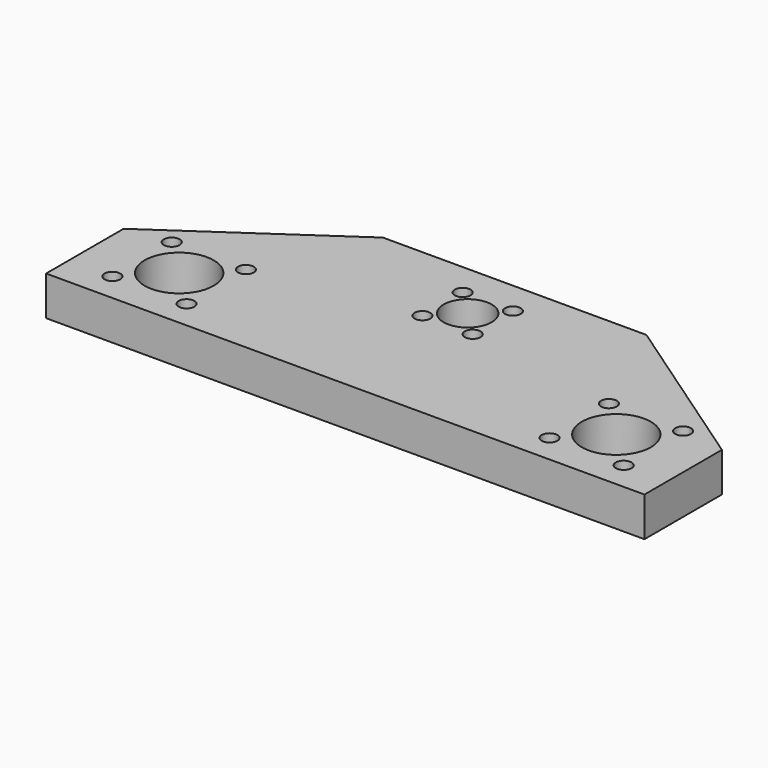
from build123d import *

# Parameters (mm, degrees)
SKETCH_R     = 5.5
SKETCH_R_2   = 1.8
SKETCH_R_3   = 7.9
PAD_DEPTH    = 15
POCKET_DEPTH = 6


with BuildPart() as part:
    # Sketch → Pad (new body)
    with BuildSketch(Plane.XY):
        Polygon((-68.442958, -12.848852), (-30.14609, 13.441504), (30.14609, 13.441504), (68.442958, -12.848852), (68.442958, -35), (-68.442958, -35), align=None)
        Circle(SKETCH_R, mode=Mode.SUBTRACT)
        with Locations((-5.75, 5.75)):
            Circle(SKETCH_R_2, mode=Mode.SUBTRACT)
        with Locations((5.75, 5.75)):
            Circle(SKETCH_R_2, mode=Mode.SUBTRACT)
        with Locations((5.75, -5.75)):
            Circle(SKETCH_R_2, mode=Mode.SUBTRACT)
        with Locations((-5.75, -5.75)):
            Circle(SKETCH_R_2, mode=Mode.SUBTRACT)
        with Locations((-58.485281, -28.485281)):
            Circle(SKETCH_R_2, mode=Mode.SUBTRACT)
        with Locations((-41.514719, -11.514719)):
            Circle(SKETCH_R_2, mode=Mode.SUBTRACT)
        with Locations((-41.514719, -28.485281)):
            Circle(SKETCH_R_2, mode=Mode.SUBTRACT)
        with Locations((-58.485281, -11.514719)):
            Circle(SKETCH_R_2, mode=Mode.SUBTRACT)
        with Locations((-50, -20)):
            Circle(SKETCH_R_3, mode=Mode.SUBTRACT)
        with Locations((41.514719, -28.485281)):
            Circle(SKETCH_R_2, mode=Mode.SUBTRACT)
        with Locations((58.485281, -11.514719)):
            Circle(SKETCH_R_2, mode=Mode.SUBTRACT)
        with Locations((58.485281, -28.485281)):
            Circle(SKETCH_R_2, mode=Mode.SUBTRACT)
        with Locations((41.514719, -11.514719)):
            Circle(SKETCH_R_2, mode=Mode.SUBTRACT)
        with Locations((50, -20)):
            Circle(SKETCH_R_3, mode=Mode.SUBTRACT)
    extrude(amount=PAD_DEPTH)

    # Sketch001 → Pocket (cut)
    with BuildSketch(Plane(origin=(0, 0, 0), x_dir=(1, 0, 0), z_dir=(0, 0, -1))):
        with BuildLine():
            Line((-30.14609, -13.441504), (-68.442958, 12.848852))
            Line((-68.442958, 12.848852), (-68.442958, 35))
            Line((-68.442958, 35), (68.442958, 35))
            Line((68.442958, 35), (68.442958, 12.848852))
            Line((68.442958, 12.848852), (30.14609, -13.441504))
            ThreePointArc((30.14609, -13.441504), (0, 16.704586), (-30.14609, -13.441504))
        make_face()
    extrude(amount=-POCKET_DEPTH, mode=Mode.SUBTRACT)


solid = part.part
